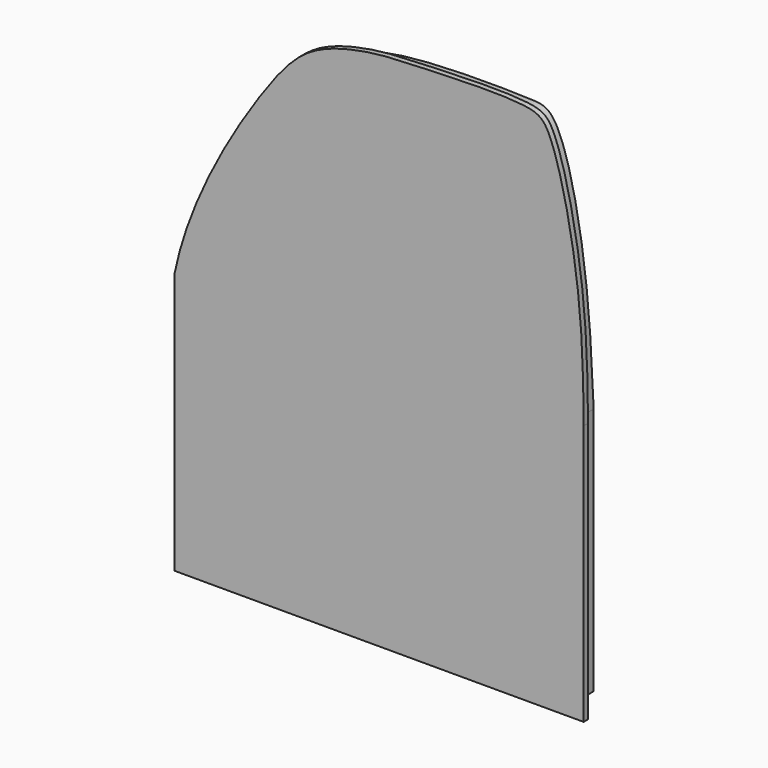
from build123d import *

# Parameters (mm, degrees)
F1_DEPTH = 1
F2_DEPTH = 5


with BuildPart() as f1:
    # F0 (on Front) → F1 (new body)
    with BuildSketch(Plane.XZ):
        with BuildLine():
            Line((-43.6766035855, -4.3176412582), (-43.6766035855, -52.260261029))
            Line((-43.6766035855, -52.260261029), (31.6210500896, -52.260261029))
            Line((31.6210500896, -52.260261029), (31.6210500896, -4.3176412582))
            add(Edge.make_bspline(
                [(-43.6766035855, -4.3176412582), (-41.0383021138, 9.0666906176), (-27.9398807539, 30.9156219348), (-18.7479844266, 41.3390835094), (-7.0085331076, 43.5985571671), (-2.215007715, 43.8020735184), (21.2993443911, 44.9657713637), (26.0800513958, 41.7197839808), (31.3102526714, 18.3624746495), (31.5930695379, 3.1075431018), (31.6210500896, -4.3176412582)],
                knots=[0, 0, 0, 0, 0.1942047864, 0.3092342936, 0.40822929, 0.4837495286, 0.6306580628, 0.7017097882, 0.8479049191, 1, 1, 1, 1], degree=3))
        make_face()
        with BuildLine():
            Line((29.4725894928, -50.028309226), (-41.2763357162, -50.028309226))
            Line((-41.2763357162, -50.028309226), (-41.2763357162, -4.3176412582))
            add(Edge.make_bspline(
                [(29.4725894928, -4.3176412582), (29.1241496967, 2.9787885737), (28.5454511929, 18.1687452905), (23.4164160844, 41.9172876242), (16.665337298, 42.2003372333), (-7.4096989865, 42.5160002908), (-22.9090094529, 36.1722681351), (-37.4855825891, 11.2133633357), (-41.2763357162, -4.3176412582)],
                knots=[0, 0, 0, 0, 0.1793175303, 0.3494515687, 0.4340680096, 0.6090858367, 0.7583926872, 1, 1, 1, 1], degree=3))
            Line((29.4725894928, -4.3176412582), (29.4725894928, -50.028309226))
        make_face(mode=Mode.SUBTRACT)
    extrude(amount=-F1_DEPTH)

    # F0 (on Front) → F2 (join)
    with BuildSketch(Plane.XZ):
        with BuildLine():
            Line((-41.2763357162, -4.3176412582), (-41.2763357162, -50.028309226))
            Line((-41.2763357162, -50.028309226), (29.4725894928, -50.028309226))
            Line((29.4725894928, -50.028309226), (29.4725894928, -4.3176412582))
            add(Edge.make_bspline(
                [(29.4725894928, -4.3176412582), (29.1241496967, 2.9787885737), (28.5454511929, 18.1687452905), (23.4164160844, 41.9172876242), (16.665337298, 42.2003372333), (-7.4096989865, 42.5160002908), (-22.9090094529, 36.1722681351), (-37.4855825891, 11.2133633357), (-41.2763357162, -4.3176412582)],
                knots=[0, 0, 0, 0, 0.1793175303, 0.3494515687, 0.4340680096, 0.6090858367, 0.7583926872, 1, 1, 1, 1], degree=3))
        make_face()
    extrude(amount=-F2_DEPTH)


solid = f1.part
